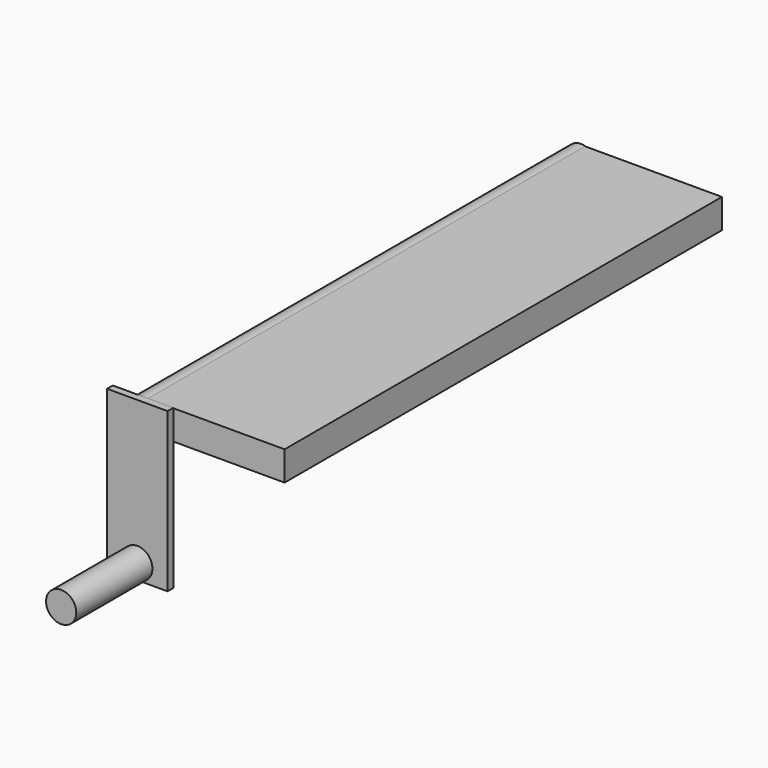
from build123d import *

# Parameters (mm, degrees)
F0_W     = 76.2
F0_H     = 199.9996
F1_DEPTH = 4.499991
F2_R     = 19.05
F3_DEPTH = 120
F4_R     = 19
F5_DEPTH = 690
F6_W     = 688.959937
F6_H     = 36.997854
F7_DEPTH = 178


with BuildPart() as f1:
    # F0 (on Front) → F1 (new body, symmetric)
    with BuildSketch(Plane.XZ):
        Rectangle(F0_W, F0_H)
    extrude(amount=F1_DEPTH, both=True)

    # F2 (on face) → F3 (join)
    with BuildSketch(Plane.XZ.offset(4.499991)):
        with Locations((0, -80.9498)):
            Circle(F2_R)
    extrude(amount=F3_DEPTH)

    # F4 (on face) → F5 (join)
    with BuildSketch(Plane(origin=(0, 4.499991, 0), x_dir=(-1, 0, 0), z_dir=(0, 1, 0))):
        with Locations((0, 80.9998)):
            Circle(F4_R)
    extrude(amount=F5_DEPTH)

    # F6 (on Right) → F7 (join)
    with BuildSketch(Plane.YZ):
        with Locations((349.496255, 80.745302)):
            Rectangle(F6_W, F6_H)
    extrude(amount=F7_DEPTH)


solid = f1.part
